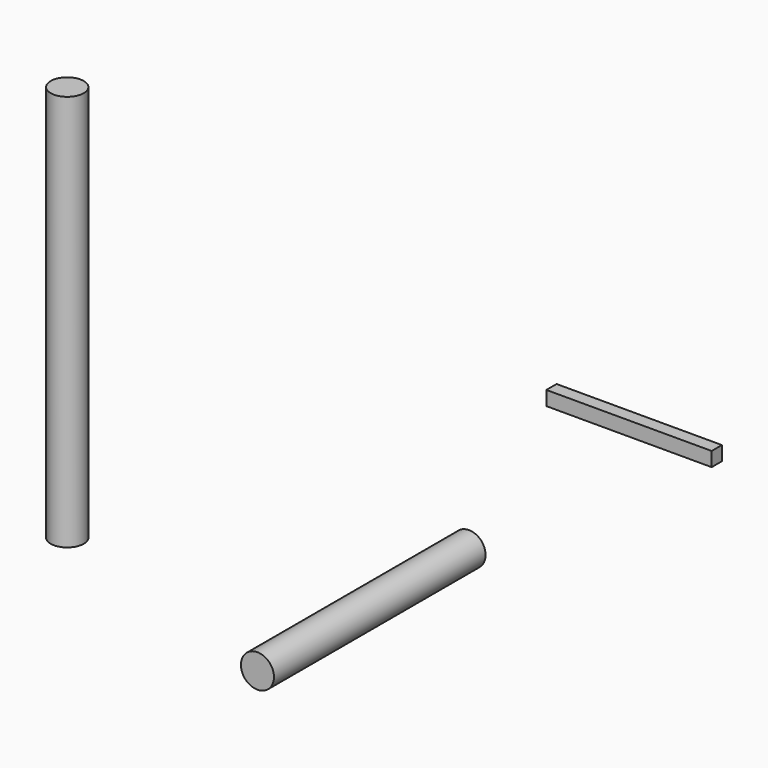
from build123d import *

# Parameters (mm, degrees)
F0_R     = 2.5
F1_DEPTH = 40
F2_R     = 2.5
F3_DEPTH = 60
F4_R     = 1.068068
F5_DEPTH = 15
F6_R     = 1.342476
F7_DEPTH = 28
F8_W     = 1.941328
F8_H     = 2.15703
F9_DEPTH = 25


with BuildPart() as f1:
    # F0 (on Front) → F1 (new body)
    with BuildSketch(Plane.XZ):
        Circle(F0_R)
    extrude(amount=F1_DEPTH)

    # F4 (on Front) → F5 (cut)
    with BuildSketch(Plane.XZ):
        Circle(F4_R)
    extrude(amount=F5_DEPTH, mode=Mode.SUBTRACT)


with BuildPart() as f3:
    # F2 (on Top) → F3 (new body)
    with BuildSketch(Plane.XY):
        with Locations((-38.829888, -27.419055)):
            Circle(F2_R)
    extrude(amount=F3_DEPTH)

    # F6 (on Front) → F7 (cut)
    with BuildSketch(Plane.XZ):
        with Locations((-38.609069, 29.571837)):
            Circle(F6_R)
    extrude(amount=F7_DEPTH, mode=Mode.SUBTRACT)


with BuildPart() as f9:
    # F8 (on Right) → F9 (new body)
    with BuildSketch(Plane.YZ):
        with Locations((15.586394, 14.139386)):
            Rectangle(F8_W, F8_H)
    extrude(amount=F9_DEPTH)


solid = Compound([f1.part, f3.part, f9.part])
